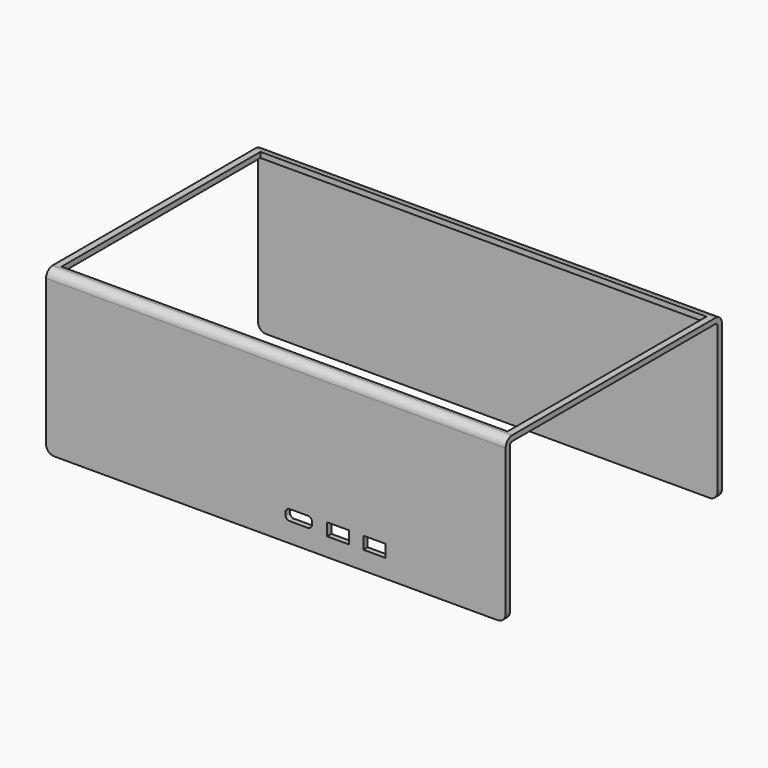
from build123d import *

# Parameters (mm, degrees)
PAD001_DEPTH    = 250
SKETCH_W        = 170
SKETCH_H        = 100
PAD_DEPTH       = 60
FILLET_R        = 3
SKETCH001_W     = 17
SKETCH001_H     = 14.3
SKETCH001_W_2   = 15.6
SKETCH001_H_2   = 16.5
POCKET_DEPTH    = 45.251
SKETCH002_W     = 8.2
SKETCH002_H     = 4.6
POCKET001_DEPTH = 30.001
SKETCH006_W     = 165
SKETCH006_H     = 92
POCKET003_DEPTH = 500
SKETCH007_R     = 2.2
SKETCH007_R_2   = 1.75
POCKET004_DEPTH = 5


with BuildPart() as top_mask:
    # Sketch003 → Pad001 (new body, symmetric)
    with BuildSketch(Plane.YZ):
        with BuildLine():
            Line((-28, 0), (-28, 56.999991))
            ThreePointArc((-27, 58), (-27.70711, 57.707103), (-28, 56.999991))
            Line((-27, 58), (67, 58))
            ThreePointArc((68, 56.999991), (67.70711, 57.707103), (67, 58))
            Line((68, 0), (68, 56.999991))
            Line((-28, 0), (68, 0))
        make_face()
    extrude(amount=PAD001_DEPTH, both=True)


with BuildPart() as top:
    # Sketch → Pad (new body)
    with BuildSketch(Plane.XY):
        with Locations((-39.75, 20)):
            Rectangle(SKETCH_W, SKETCH_H)
    extrude(amount=PAD_DEPTH)

    # Fillet
    fillet_edges = [top.edges().sort_by_distance(p)[0] for p in [
        (45.25, 20, 0),
        (-39.75, -30, 60),
        (-39.75, 70, 60),
        (-124.75, 20, 0),
    ]]
    fillet(fillet_edges, radius=FILLET_R)

    # Sketch001 → Pocket (cut, through all)
    with BuildSketch(Plane.YZ):
        with Locations((-17.8, 14.75)):
            Rectangle(SKETCH001_W, SKETCH001_H)
        with Locations((1.05, 16.2)):
            Rectangle(SKETCH001_W_2, SKETCH001_H_2)
        with Locations((19, 16.2)):
            Rectangle(SKETCH001_W_2, SKETCH001_H_2)
    extrude(amount=POCKET_DEPTH, mode=Mode.SUBTRACT)

    # Sketch002 → Pocket001 (cut, through all)
    with BuildSketch(Plane.XZ):
        with BuildLine():
            ThreePointArc((-34.67, 11.2), (-35.73066, 10.76066), (-36.17, 9.7))
            Line((-36.17, 8.74), (-36.17, 9.7))
            ThreePointArc((-36.17, 8.74), (-35.73066, 7.67934), (-34.67, 7.24))
            Line((-27.93, 7.24), (-34.67, 7.24))
            ThreePointArc((-27.93, 7.24), (-26.86934, 7.67934), (-26.43, 8.74))
            Line((-26.43, 9.7), (-26.43, 8.74))
            ThreePointArc((-26.43, 9.7), (-26.86934, 10.76066), (-27.93, 11.2))
            Line((-34.67, 11.2), (-27.93, 11.2))
        make_face()
        with Locations((-16.704733, 9.1)):
            Rectangle(SKETCH002_W, SKETCH002_H)
        with Locations((-3.304733, 9.1)):
            Rectangle(SKETCH002_W, SKETCH002_H)
    extrude(amount=POCKET001_DEPTH, mode=Mode.SUBTRACT)

    # Sketch006 → Pocket003 (cut)
    with BuildSketch(Plane.XY.offset(30)):
        with Locations((-39.75, 20)):
            Rectangle(SKETCH006_W, SKETCH006_H)
    extrude(amount=POCKET003_DEPTH, mode=Mode.SUBTRACT)

    # Sketch007 → Pocket004 (cut)
    with BuildSketch(Plane.XY):
        with Locations((-39, 24.5)):
            Circle(SKETCH007_R)
        with Locations((19, 24.5)):
            Circle(SKETCH007_R)
        with Locations((-39, -24.5)):
            Circle(SKETCH007_R)
        with Locations((19, -24.5)):
            Circle(SKETCH007_R)
        with Locations((-112, 18.5)):
            Circle(SKETCH007_R)
        with Locations((-116.75, -23.9)):
            Circle(SKETCH007_R_2)
        with Locations((-116.75, 63.9)):
            Circle(SKETCH007_R_2)
        with Locations((37.25, 63.9)):
            Circle(SKETCH007_R_2)
    extrude(amount=POCKET004_DEPTH, mode=Mode.SUBTRACT)

    # Cut: cut Top Mask
    add(top_mask.part, mode=Mode.SUBTRACT)


solid = top.part
